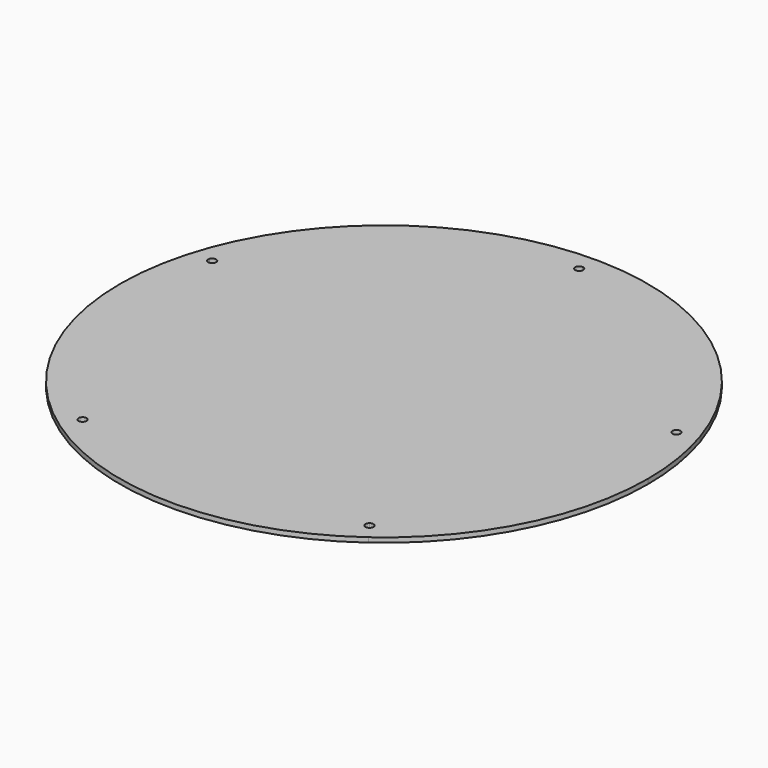
from build123d import *

# Parameters (mm, degrees)
F1_DEPTH = 3


with BuildPart() as f1:
    # F0 (on Top) → F1 (new body)
    with BuildSketch(Plane.XY):
        with BuildLine():
            Line((148.364816542, 48.2066511225), (157.875381705, 51.2968210662))
            ThreePointArc((157.875381705, 51.2968210662), (97.5723518806, 134.2968210662), (0, 166))
            Line((0, 166), (0, 156))
            ThreePointArc((0, 156), (1.767766953, 155.267766953), (2.5, 153.5))
            ThreePointArc((2.5, 153.5), (1.767766953, 151.732233047), (0, 151))
            Line((0, 151), (0, 0))
            Line((0, 0), (143.6095339606, 46.6615661506))
            ThreePointArc((143.6095339606, 46.6615661506), (145.2146327654, 49.8117499273), (148.364816542, 48.2066511225))
        make_face()
        with BuildLine():
            ThreePointArc((97.5723518806, -134.2968210662), (147.9070830153, -75.3624229568), (166, 0))
            ThreePointArc((166, 0), (163.9562645388, 25.9681211967), (157.875381705, 51.2968210662))
            Line((157.875381705, 51.2968210662), (148.364816542, 48.2066511225))
            ThreePointArc((148.364816542, 48.2066511225), (148.4563961028, 47.8251947992), (148.4871752513, 47.4341086366))
            ThreePointArc((148.4871752513, 47.4341086366), (146.3782614139, 44.9648877851), (143.6095339606, 46.6615661506))
            Line((143.6095339606, 46.6615661506), (0, 0))
            Line((0, 0), (88.7555730962, -122.1615661506))
            ThreePointArc((88.7555730962, -122.1615661506), (91.3600124762, -121.9565923261), (92.7250362269, -124.1841086366))
            ThreePointArc((92.7250362269, -124.1841086366), (92.4525525374, -125.3190848859), (91.6944993576, -126.2066511225))
            Line((91.6944993576, -126.2066511225), (97.5723518806, -134.2968210662))
        make_face()
        with BuildLine():
            ThreePointArc((-97.5723518806, -134.2968210662), (0, -166), (97.5723518806, -134.2968210662))
            Line((97.5723518806, -134.2968210662), (91.6944993576, -126.2066511225))
            ThreePointArc((91.6944993576, -126.2066511225), (88.202493741, -125.6535717673), (88.7555730962, -122.1615661506))
            Line((88.7555730962, -122.1615661506), (0, 0))
            Line((0, 0), (-88.7555730962, -122.1615661506))
            ThreePointArc((-88.7555730962, -122.1615661506), (-87.9975199164, -123.0491323872), (-87.7250362269, -124.1841086366))
            ThreePointArc((-87.7250362269, -124.1841086366), (-89.0900599775, -126.411624947), (-91.6944993576, -126.2066511225))
            Line((-91.6944993576, -126.2066511225), (-97.5723518806, -134.2968210662))
        make_face()
        with BuildLine():
            ThreePointArc((-157.875381705, 51.2968210662), (-157.875381705, -51.2968210662), (-97.5723518806, -134.2968210662))
            Line((-97.5723518806, -134.2968210662), (-91.6944993576, -126.2066511225))
            ThreePointArc((-91.6944993576, -126.2066511225), (-92.2475787128, -122.7146455058), (-88.7555730962, -122.1615661506))
            Line((-88.7555730962, -122.1615661506), (0, 0))
            Line((0, 0), (-143.6095339606, 46.6615661506))
            ThreePointArc((-143.6095339606, 46.6615661506), (-146.7597177372, 45.0564673458), (-148.364816542, 48.2066511225))
            Line((-148.364816542, 48.2066511225), (-157.875381705, 51.2968210662))
        make_face()
        with BuildLine():
            Line((0, 156), (0, 166))
            ThreePointArc((0, 166), (-97.5723518806, 134.2968210662), (-157.875381705, 51.2968210662))
            Line((-157.875381705, 51.2968210662), (-148.364816542, 48.2066511225))
            ThreePointArc((-148.364816542, 48.2066511225), (-145.5960890887, 49.903329488), (-143.4871752513, 47.4341086366))
            ThreePointArc((-143.4871752513, 47.4341086366), (-143.5179543998, 47.043022474), (-143.6095339606, 46.6615661506))
            Line((-143.6095339606, 46.6615661506), (0, 0))
            Line((0, 0), (0, 151))
            ThreePointArc((0, 151), (-2.5, 153.5), (0, 156))
        make_face()
    extrude(amount=F1_DEPTH)


solid = f1.part
